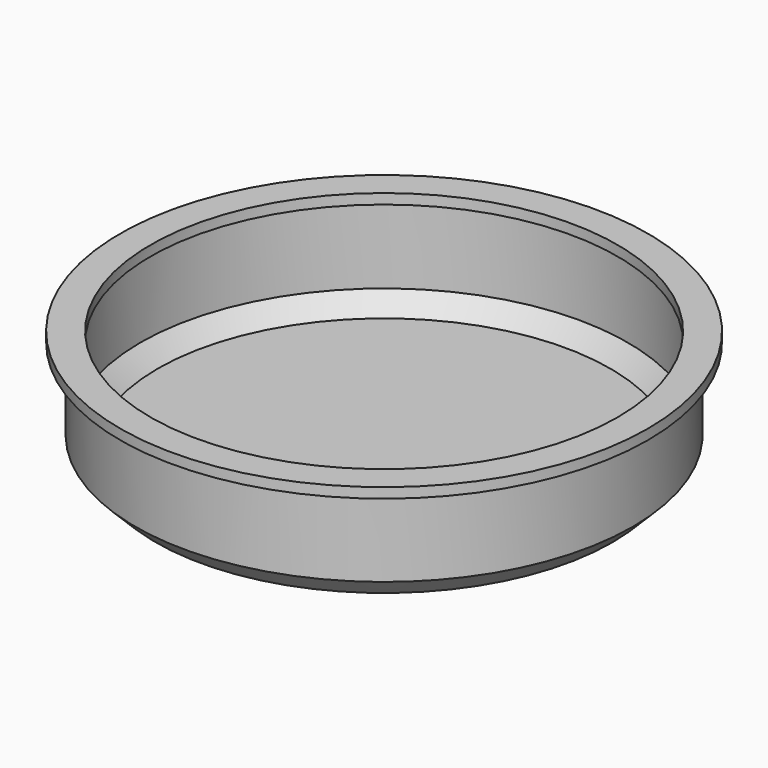
from build123d import *

# Parameters (mm, degrees)
SKETCH001_R   = 26
SKETCH001_R_2 = 23
PAD001_DEPTH  = 1
SKETCH_R      = 24.5
PAD_DEPTH     = 10
CHAMFER_SIZE  = 2
THICKNESS_T   = -0.5


with BuildPart() as pad001:
    # Sketch001 → Pad001 (new body)
    with BuildSketch(Plane.XY.offset(10)):
        Circle(SKETCH001_R)
        Circle(SKETCH001_R_2, mode=Mode.SUBTRACT)
    extrude(amount=PAD001_DEPTH)


with BuildPart() as thickness:
    # Sketch → Pad (new body)
    with BuildSketch(Plane.XY):
        Circle(SKETCH_R)
    extrude(amount=PAD_DEPTH)

    # Chamfer
    chamfer_edges = [thickness.edges().sort_by_distance(p)[0] for p in [
        (-24.5, 0, 0),
    ]]
    chamfer(chamfer_edges, length=CHAMFER_SIZE)

    # Thickness
    thickness_openings = [thickness.faces().sort_by_distance(p)[0] for p in [
        (0, 0, 10),
    ]]
    offset(amount=THICKNESS_T, openings=thickness_openings)


solid = Compound([pad001.part, thickness.part])
